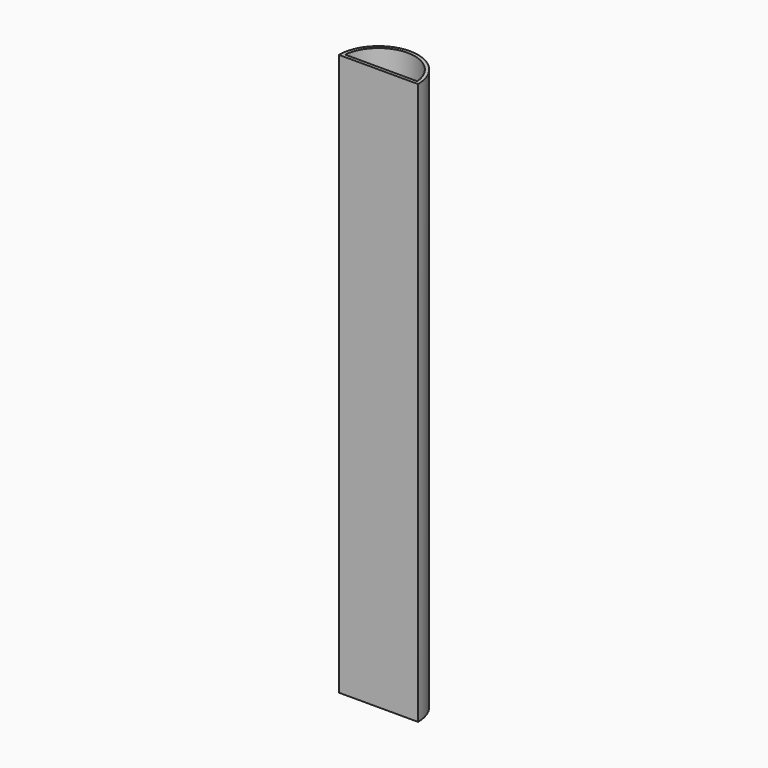
from build123d import *

# Parameters (mm, degrees)
F0_W     = 5.929678
F0_H     = 84.061658
F1_ANGLE = 180
F2_T     = -0.5


with BuildPart() as f1:
    # F0 (on Right) → F1 (revolve, symmetric)
    with BuildSketch(Plane.YZ) as f1_sk:
        with Locations((2.964839, 0)):
            Rectangle(F0_W, F0_H)
    revolve(axis=Axis((0, 0, 0), (0, 0, -1)), revolution_arc=F1_ANGLE / 2)
    revolve(f1_sk.sketch, axis=Axis((0, 0, 0), (0, 0, 1)), revolution_arc=F1_ANGLE / 2)

    # F2
    f2_openings = [f1.faces().sort_by_distance(p)[0] for p in [
        (0, 2.516634, 42.030829),
    ]]
    offset(amount=F2_T, openings=f2_openings)


solid = f1.part
